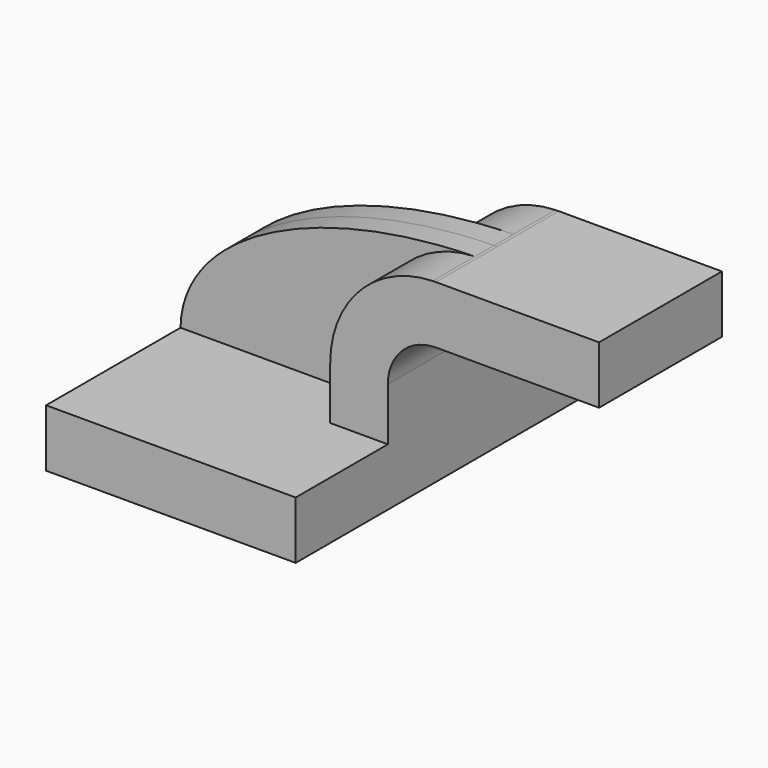
from build123d import *

# Parameters (mm, degrees)
F1_DEPTH = 63.5
F2_DEPTH = 25.4
F3_DEPTH = 7.9375


with BuildPart() as f1:
    # F0 (on Front) → F1 (new body, symmetric)
    with BuildSketch(Plane.XZ):
        Polygon((22.225, 9.525), (-41.275, 9.525), (-41.275, -9.525), (41.275, -9.525), (41.275, 9.525), align=None)
    extrude(amount=F1_DEPTH, both=True)

    # F0 (on Front) → F2 (join, symmetric)
    with BuildSketch(Plane.XZ):
        with BuildLine():
            Line((22.225, 27.0002), (22.225, 9.525))
            Line((22.225, 9.525), (41.275, 9.525))
            Line((41.275, 9.525), (41.275, 27.0002))
            ThreePointArc((41.275, 27.0002), (45.92468, 38.22552), (57.15, 42.8752))
            Line((57.15, 42.8752), (60.325, 42.8752))
            Line((60.325, 42.8752), (60.325, 61.9252))
            Line((60.325, 61.9252), (57.15, 61.9252))
            add(Edge.make_bspline(
                [(56.101355, 61.909453), (56.450531, 61.915616), (56.800083, 61.920866), (57.15, 61.9252)],
                knots=[110.770194, 110.770194, 110.770194, 110.770194, 111.504536, 111.504536, 111.504536, 111.504536], degree=3))
            ThreePointArc((56.101355, 61.909453), (32.086286, 51.322327), (22.225, 27.0002))
        make_face()
        Polygon((85.725, 61.9252), (60.325, 61.9252), (60.325, 42.8752), (85.725, 42.8752), (85.725, 52.3875), align=None)
        Polygon((111.125, 61.9252), (85.725, 61.9252), (85.725, 52.3875), (85.725, 42.8752), (111.125, 42.8752), align=None)
    extrude(amount=F2_DEPTH, both=True)

    # F0 (on Front) → F3 (join, symmetric)
    with BuildSketch(Plane.XZ):
        with BuildLine():
            add(Edge.make_bspline(
                [(-41.275, 9.525), (-40.702354, 39.286222), (3.430554, 60.979856), (56.101355, 61.909453)],
                knots=[0, 0, 0, 0, 110.770194, 110.770194, 110.770194, 110.770194], degree=3))
            Line((-41.275, 9.525), (22.225, 9.525))
            Line((22.225, 9.525), (22.225, 27.0002))
            ThreePointArc((22.225, 27.0002), (32.086286, 51.322327), (56.101355, 61.909453))
        make_face()
    extrude(amount=F3_DEPTH, both=True)


solid = f1.part
